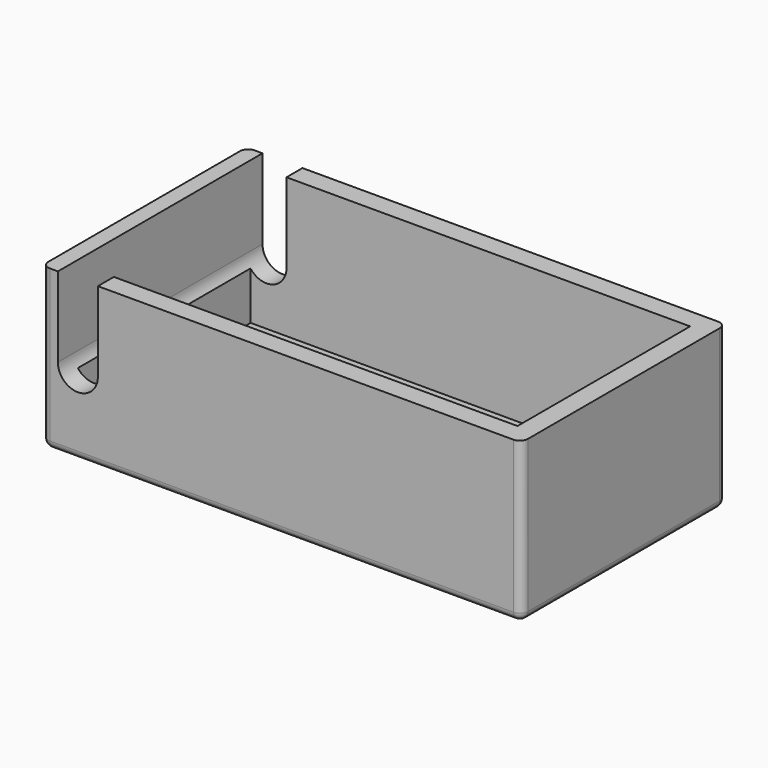
from build123d import *

# Parameters (mm, degrees)
F0_W     = 60
F0_H     = 32
F1_DEPTH = 20
F2_T     = -2.5
F4_DEPTH = 32.001
F5_R     = 1


with BuildPart() as f1:
    # F0 (on Top) → F1 (new body)
    with BuildSketch(Plane.XY):
        Rectangle(F0_W, F0_H)
    extrude(amount=F1_DEPTH)

    # F2
    f2_openings = [f1.faces().sort_by_distance(p)[0] for p in [
        (0, 0, 20),
    ]]
    offset(amount=F2_T, openings=f2_openings)

    # F3 (on face) → F4 (cut, through all)
    with BuildSketch(Plane(origin=(0, 16, 0), x_dir=(-1, 0, 0), z_dir=(0, 1, 0))):
        with BuildLine():
            Line((23, 20), (23, 10))
            ThreePointArc((23, 10), (25.5, 7.5), (28, 10))
            Line((28, 10), (28, 20))
            Line((28, 20), (23, 20))
        make_face()
    extrude(amount=-F4_DEPTH, mode=Mode.SUBTRACT)

    # F5
    f5_edges = [f1.edges().sort_by_distance(p)[0] for p in [
        (30, -16, 10),
        (0, -16, 0),
        (30, 16, 10),
        (30, 0, 0),
        (-30, -16, 10),
        (-30, 16, 10),
        (-30, 0, 0),
        (0, 16, 0),
    ]]
    fillet(f5_edges, radius=F5_R)


solid = f1.part
